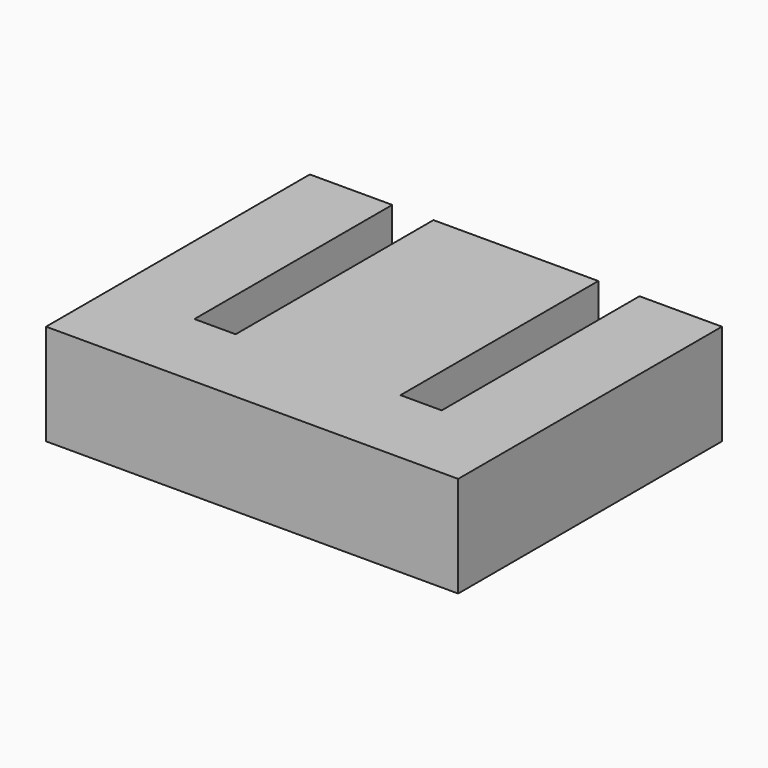
from build123d import *

# Parameters (mm, degrees)
F0_W     = 10
F0_H     = 30
F0_W_2   = 5
F0_W_3   = 20
F1_DEPTH = 12.25
F2_DEPTH = 5


with BuildPart() as f1:
    # F0 (on Top) → F1 (new body)
    with BuildSketch(Plane.XY):
        with Locations((-21.250001, 6.051982)):
            Rectangle(F0_W, F0_H)
        with Locations((-13.750001, 6.051982)):
            Rectangle(F0_W_2, F0_H)
        Polygon((-16.250001, -8.948018), (-26.250001, -8.948018), (-26.250001, -18.948018), (23.749999, -18.948018), (23.749999, -8.948018), (13.749999, -8.948018), (8.749999, -8.948018), (-11.250001, -8.948018), align=None)
        with Locations((-1.250001, 6.051982)):
            Rectangle(F0_W_3, F0_H)
        with Locations((11.249999, 6.051982)):
            Rectangle(F0_W_2, F0_H)
        with Locations((18.749999, 6.051982)):
            Rectangle(F0_W, F0_H)
    extrude(amount=-F1_DEPTH)

    # F0 (on Top) → F2 (cut)
    with BuildSketch(Plane.XY):
        with Locations((-13.750001, 6.051982)):
            Rectangle(F0_W_2, F0_H)
        with Locations((11.249999, 6.051982)):
            Rectangle(F0_W_2, F0_H)
    extrude(amount=-F2_DEPTH, mode=Mode.SUBTRACT)


solid = f1.part
